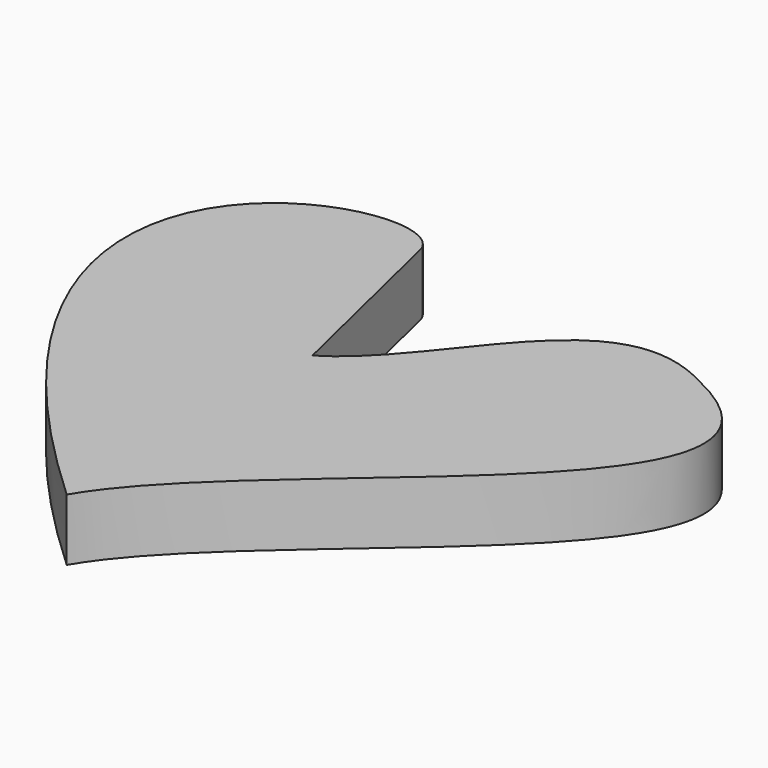
from build123d import *

# Parameters (mm, degrees)
CYLINDER_R     = 2
CYLINDER_DEPTH = 10
EXTRUDE_DEPTH  = 5


with BuildPart() as cylinder:
    # Cylinder → Cylinder (new body)
    with BuildSketch(Plane(origin=(116, -84, 0), x_dir=(1, 0, 0), z_dir=(0, 0, 1))):
        Circle(CYLINDER_R)
    extrude(amount=CYLINDER_DEPTH)


with BuildPart() as cut:
    # path1 → Extrude (new body)
    with BuildSketch(Plane(origin=(99.607537, -92.40898, 0), x_dir=(0, -1, 0), z_dir=(0, 0, -1))):
        with BuildLine():
            add(Edge.make_bspline(
                [(23.28275, 2.544127), (-12.908217, 41.876502), (-23.28275, 8.495963), (-16.864265, 6.059608)],
                knots=[0, 0, 0, 0, 1, 1, 1, 1], degree=3))
            add(Edge.make_bspline(
                [(-16.864265, 6.059608), (-1.198284, 2.30756)],
                knots=[0, 0, 16.109029, 16.109029], degree=1))
            add(Edge.make_bspline(
                [(-1.198284, 2.30756), (-5.363195, -4.763193), (-19.313207, -8.510453), (-13.693016, -18.904693)],
                knots=[0, 0, 0, 0, 1, 1, 1, 1], degree=3))
            add(Edge.make_bspline(
                [(-13.693016, -18.904693), (-5.004596, -37.313343), (10.95749, -4.605483), (23.28275, 2.544127)],
                knots=[0, 0, 0, 0, 1, 1, 1, 1], degree=3))
        make_face()
    extrude(amount=EXTRUDE_DEPTH)

    # Cut: cut Cylinder
    add(cylinder.part, mode=Mode.SUBTRACT)


solid = cut.part
